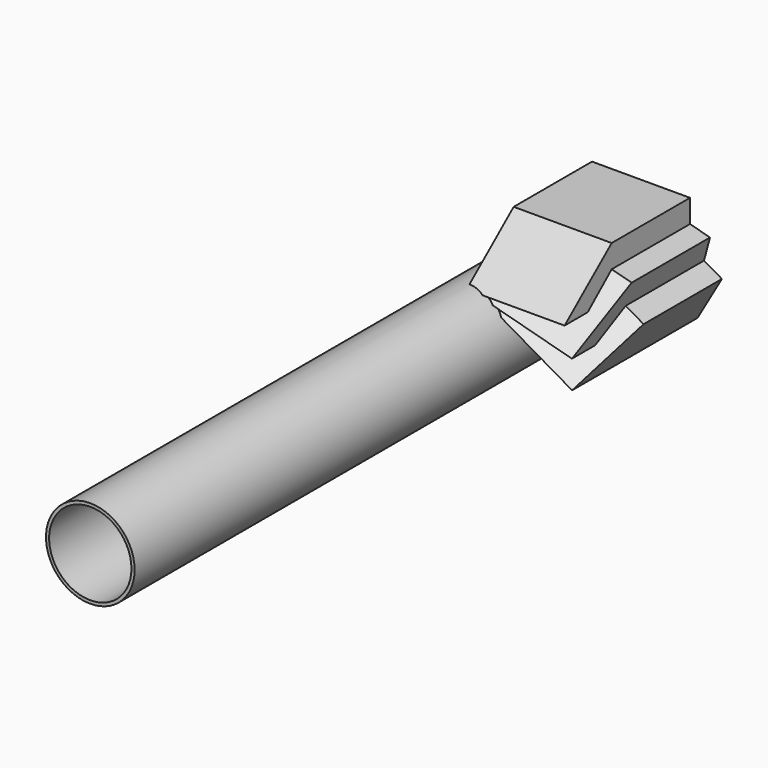
from build123d import *

# Parameters (mm, degrees)
F0_R     = 11.3
F0_R_2   = 10.5
F1_DEPTH = 160
F3_DEPTH = 25
F4_COUNT = 3
F4_ANGLE = 30


with BuildPart() as f1:
    # F0 (on Front) → F1 (new body)
    with BuildSketch(Plane.XZ):
        Circle(F0_R)
        Circle(F0_R_2, mode=Mode.SUBTRACT)
    extrude(amount=F1_DEPTH)

    # F2 (on Right) → F3 (join)
    with BuildSketch(Plane.YZ):
        Polygon((-40, 10.536463), (0, 10.536463), (0, 22.977106), (-24.981545, 22.977106), align=None)
    extrude(amount=F3_DEPTH)

    # F4: F1 ×3 about axis
    f4_axis = Axis((0, 0, 0), (0, 1, 0))


with BuildPart() as f1_1:
    add(f1.part)
    for i in range(1, F4_COUNT):
        add(f1.part.rotate(f4_axis, i * F4_ANGLE / (F4_COUNT - 1)))


solid = f1_1.part
